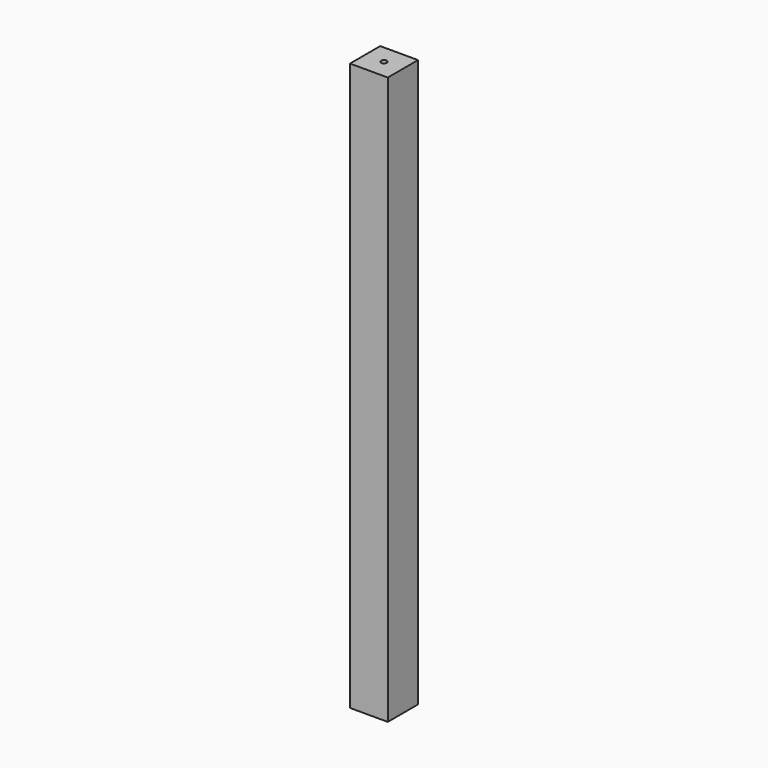
from build123d import *

# Parameters (mm, degrees)
F0_W     = 40
F0_H     = 40
F1_DEPTH = 600
F2_R     = 3
F3_DEPTH = 12
F4_R     = 3
F5_DEPTH = 25
F6_R     = 3
F7_DEPTH = 25


with BuildPart() as f1:
    # F0 (on Top) → F1 (new body)
    with BuildSketch(Plane.XY):
        with Locations((20, 20)):
            Rectangle(F0_W, F0_H)
    extrude(amount=F1_DEPTH)

    # F2 (on face) → F3 (cut)
    with BuildSketch(Plane.XY.offset(600)):
        with Locations((19.959681, 20)):
            Circle(F2_R)
    extrude(amount=-F3_DEPTH, mode=Mode.SUBTRACT)

    # F4 (on face) → F5 (cut)
    with BuildSketch(Plane(origin=(0, 0, 0), x_dir=(0, -1, 0), z_dir=(-1, 0, 0))):
        with Locations((-15.696732, 570.895016)):
            Circle(F4_R)
    extrude(amount=-F5_DEPTH, mode=Mode.SUBTRACT)

    # F6 (on face) → F7 (cut)
    with BuildSketch(Plane(origin=(0, 40, 0), x_dir=(-1, 0, 0), z_dir=(0, 1, 0))):
        with Locations((-20.330655, 569.592354)):
            Circle(F6_R)
    extrude(amount=-F7_DEPTH, mode=Mode.SUBTRACT)


solid = f1.part
